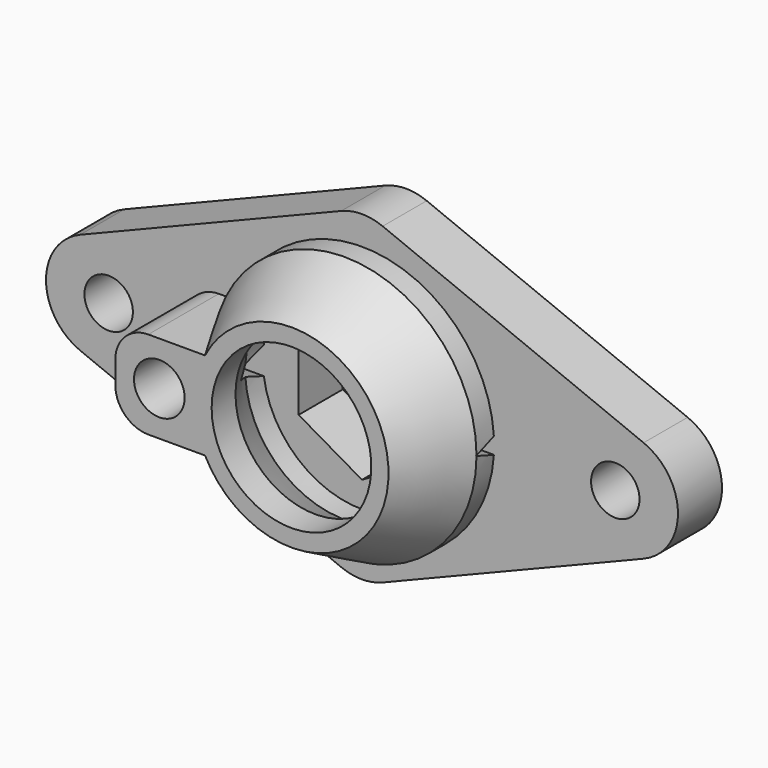
from build123d import *

# Parameters (mm, degrees)
F0_R      = 2.2
F1_DEPTH  = 5
F5_W      = 7
F5_H      = 8
F6_DEPTH  = 8
F10_DEPTH = 7
F12_DEPTH = 22.94269
F13_W     = 1.95429
F13_H     = 8
F14_DEPTH = 1.5
F15_R     = 3
F16_R     = 3


with BuildPart() as f1:
    # F0 (on Front) → F1 (new body)
    with BuildSketch(Plane.XZ):
        with BuildLine():
            Line((-1.878526, 14.238436), (-25.570216, 4.633696))
            ThreePointArc((-25.570216, 4.633696), (-28.69169, 0), (-25.570216, -4.633696))
            Line((-25.570216, -4.633696), (-1.878526, -14.238436))
            ThreePointArc((-1.878526, -14.238436), (0, -14.604739), (1.878526, -14.238436))
            Line((1.878526, -14.238436), (25.570216, -4.633696))
            ThreePointArc((25.570216, -4.633696), (28.69169, 0), (25.570216, 4.633696))
            Line((25.570216, 4.633696), (1.878526, 14.238436))
            ThreePointArc((1.878526, 14.238436), (0, 14.604739), (-1.878526, 14.238436))
        make_face()
        with Locations((-23, 0)):
            Circle(F0_R, mode=Mode.SUBTRACT)
        Polygon((0, 6.639528), (5.75, 3.319764), (5.75, -3.319764), (0, -6.639528), (-5.75, -3.319764), (-5.75, 3.319764), align=None, mode=Mode.SUBTRACT)
        with Locations((23, 0)):
            Circle(F0_R, mode=Mode.SUBTRACT)
    extrude(amount=F1_DEPTH)

    # F3 (on Top) → F4 (revolve)
    with BuildSketch(Plane.XY):
        Polygon((-9, 0), (-12, 0), (-12, -7), (-8.809743, -13), (-7.25, -13), (-7.25, -10.291271), (-9, -7), align=None)
    revolve(axis=Axis((0, -6.211402, 0), (0, 1, 0)))

    # F5 (on face) → F6 (join)
    with BuildSketch(Plane.XZ.offset(5)):
        with Locations((-12.5, 0)):
            Rectangle(F5_W, F5_H)
    extrude(amount=F6_DEPTH)

    # F7 (on Top) → F8 (revolve, cut)
    with BuildSketch(Plane.XY):
        Polygon((-12, -13), (-9.7, -13), (-10.18, -5), (-12, -5), align=None)
    revolve(axis=Axis((-12, -9.796117, 0), (0, -1, 0)), mode=Mode.SUBTRACT)

    # F9 (on face) → F10 (cut)
    with BuildSketch(Plane.YZ.offset(-5.75)):
        Polygon((-8.434347, 0), (-5, -1.25), (-5, 1.25), align=None)
    extrude(amount=-F10_DEPTH, mode=Mode.SUBTRACT)

    # F11 (on face) → F12 (cut, through all)
    with BuildSketch(Plane(origin=(5.75, 0, 0), x_dir=(0, -1, 0), z_dir=(-1, 0, 0))):
        Polygon((7.060608, 0), (5, 0.75), (5, -0.75), align=None)
    extrude(amount=-F12_DEPTH, mode=Mode.SUBTRACT)

    # F13 (on face) → F14 (join)
    with BuildSketch(Plane.YZ.offset(-9)):
        with Locations((-12.022855, 0)):
            Rectangle(F13_W, F13_H)
    extrude(amount=F14_DEPTH)

    # F15
    f15_edges = [f1.edges().sort_by_distance(p)[0] for p in [
        (-16, -9, -4),
    ]]
    fillet(f15_edges, radius=F15_R)

    # F16
    f16_edges = [f1.edges().sort_by_distance(p)[0] for p in [
        (-16, -9, 4),
    ]]
    fillet(f16_edges, radius=F16_R)


solid = f1.part
